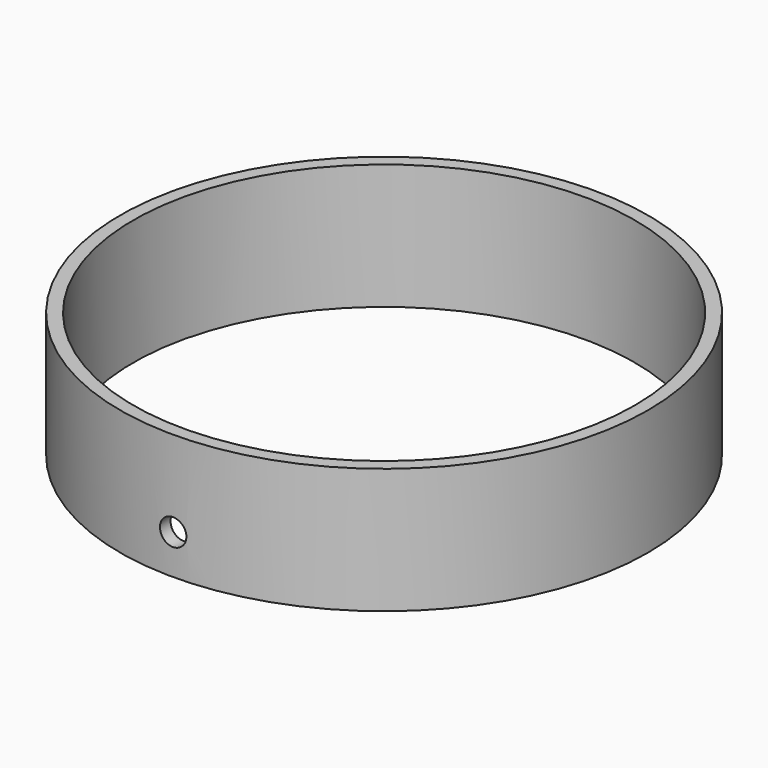
from build123d import *

# Parameters (mm, degrees)
CYLINDER010_R     = 2
CYLINDER010_DEPTH = 3
CYLINDER_R        = 38
CYLINDER_DEPTH    = 20
CYLINDER001_R     = 40
CYLINDER001_DEPTH = 19


with BuildPart() as wirehole:
    # Cylinder010 → Cylinder010 (new body)
    with BuildSketch(Plane(origin=(38, 1, 5), x_dir=(1, 0, 0), z_dir=(0, -1, 0))):
        Circle(CYLINDER010_R)
    extrude(amount=CYLINDER010_DEPTH)


with BuildPart() as obj1:
    # Cylinder → Cylinder (new body)
    with BuildSketch(Plane(origin=(38, 38, -1), x_dir=(1, 0, 0), z_dir=(0, 0, 1))):
        Circle(CYLINDER_R)
    extrude(amount=CYLINDER_DEPTH)

    # Fusion004: union WireHole
    add(wirehole.part)


with BuildPart() as depth:
    # Cylinder001 → Cylinder001 (new body)
    with BuildSketch(Plane(origin=(38, 38, -1), x_dir=(1, 0, 0), z_dir=(0, 0, 1))):
        Circle(CYLINDER001_R)
    extrude(amount=CYLINDER001_DEPTH)

    # Cut007: cut obj1
    add(obj1.part, mode=Mode.SUBTRACT)


with BuildPart() as depth_1:
    # Cut007 placement: moved
    add(depth.part.moved(Location((0, 2, 2))))


solid = depth_1.part
